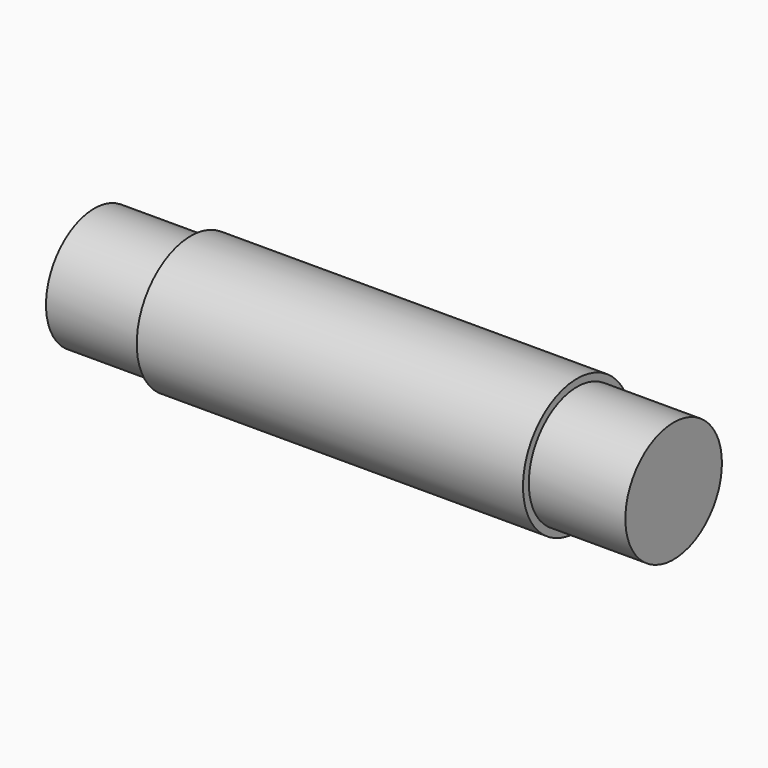
from build123d import *

# Parameters (mm, degrees)
F0_R          = 6.25
F1_DEPTH      = 50
F1_DEPTH_BACK = 10
F0_R_2        = 7
F2_DEPTH      = 40


with BuildPart() as f1:
    # F0 (on Right) → F1 (new body, two sides)
    with BuildSketch(Plane.YZ) as f1_sk:
        Circle(F0_R)
    extrude(amount=F1_DEPTH)
    extrude(f1_sk.sketch, amount=-F1_DEPTH_BACK)

    # F0 (on Right) → F2 (join)
    with BuildSketch(Plane.YZ):
        Circle(F0_R_2)
        Circle(F0_R, mode=Mode.SUBTRACT)
    extrude(amount=F2_DEPTH)


solid = f1.part
